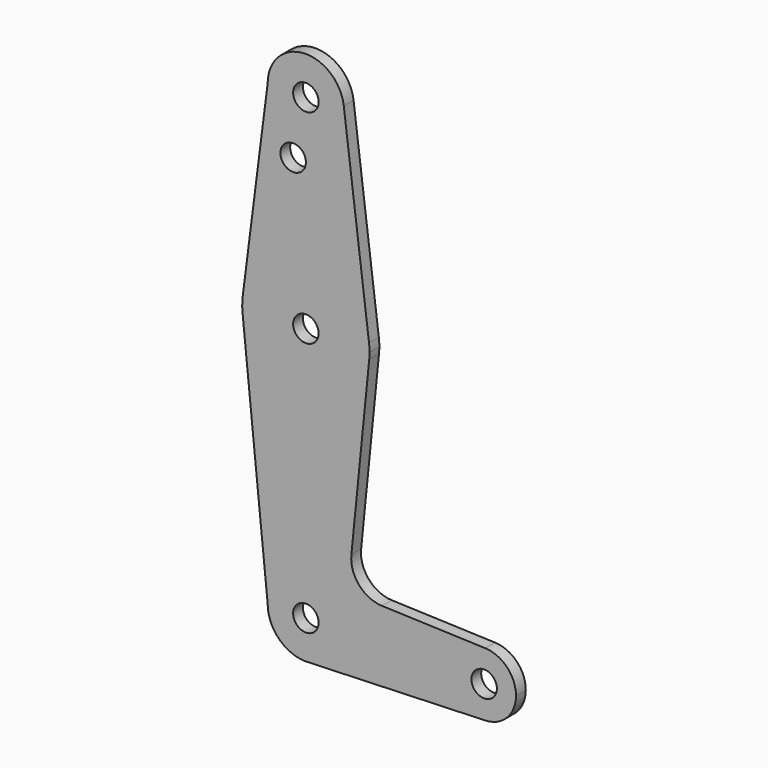
from build123d import *

# Parameters (mm, degrees)
F0_R     = 3.175
F1_DEPTH = 3.048


with BuildPart() as f1:
    # F0 (on Front) → F1 (new body)
    with BuildSketch(Plane.XZ):
        with BuildLine():
            ThreePointArc((-9.525, 114.3), (0, 104.775), (9.525, 114.3))
            ThreePointArc((9.525, 114.3), (9.506305, 114.896483), (9.450293, 115.490625))
            ThreePointArc((9.450293, 115.490625), (-0.596483, 123.806305), (-9.525, 114.3))
        make_face()
        with Locations((0, 114.3)):
            Circle(F0_R, mode=Mode.SUBTRACT)
        with BuildLine():
            ThreePointArc((9.450293, 115.490625), (9.506305, 114.896483), (9.525, 114.3))
            ThreePointArc((9.525, 114.3), (0, 104.775), (-9.525, 114.3))
            Line((-9.525, 114.3), (-15.747457, 65.508289))
            ThreePointArc((-15.747457, 65.508289), (0.012053, 79.374995), (15.750488, 65.484375))
            Line((15.750488, 65.484375), (9.450293, 115.490625))
        make_face()
        with Locations((-3.175, 100.0252)):
            Circle(F0_R, mode=Mode.SUBTRACT)
        with BuildLine():
            ThreePointArc((15.875, 63.5), (15.843841, 64.494139), (15.750488, 65.484375))
            ThreePointArc((15.750488, 65.484375), (0.012053, 79.374995), (-15.747457, 65.508289))
            ThreePointArc((-15.747457, 65.508289), (-15.873668, 63.705667), (-15.794203, 61.90038))
            ThreePointArc((-15.794203, 61.90038), (0.006091, 47.625001), (15.795426, 61.9125))
            ThreePointArc((15.795426, 61.9125), (15.855094, 62.705253), (15.875, 63.5))
        make_face()
        with Locations((0, 63.5)):
            Circle(F0_R, mode=Mode.SUBTRACT)
        with BuildLine():
            ThreePointArc((15.795426, 61.9125), (0.006091, 47.625001), (-15.794203, 61.90038))
            Line((-15.794203, 61.90038), (-9.525, 0))
            ThreePointArc((-9.525, 0), (0, 9.525), (9.525, 0))
            ThreePointArc((9.525, 0), (6.970557, -6.491299), (0.677344, -9.500886))
            Line((0.677344, -9.500886), (44.732405, -7.932475))
            ThreePointArc((44.732405, -7.932475), (36.5125, 0.000539), (44.733482, 7.932436))
            Line((44.733482, 7.932436), (18.9676, 8.853234))
            ThreePointArc((18.9676, 8.853234), (13.2612, 11.571359), (11.341187, 17.593382))
            Line((11.341187, 17.593382), (15.795426, 61.9125))
        make_face()
        with BuildLine():
            ThreePointArc((9.525, 0), (0, 9.525), (-9.525, 0))
            ThreePointArc((-9.525, 0), (-6.735192, -6.735192), (0, -9.525))
            Line((0, -9.525), (0.677344, -9.500886))
            ThreePointArc((0.677344, -9.500886), (6.970557, -6.491299), (9.525, 0))
        make_face()
        Circle(F0_R, mode=Mode.SUBTRACT)
        with BuildLine():
            ThreePointArc((52.3875, 0), (50.162007, 5.511523), (44.733482, 7.932436))
            ThreePointArc((44.733482, 7.932436), (36.5125, 0.000539), (44.732405, -7.932475))
            ThreePointArc((44.732405, -7.932475), (50.161633, -5.51191), (52.3875, 0))
        make_face()
        with Locations((44.45, 0)):
            Circle(F0_R, mode=Mode.SUBTRACT)
    extrude(amount=F1_DEPTH)


solid = f1.part
